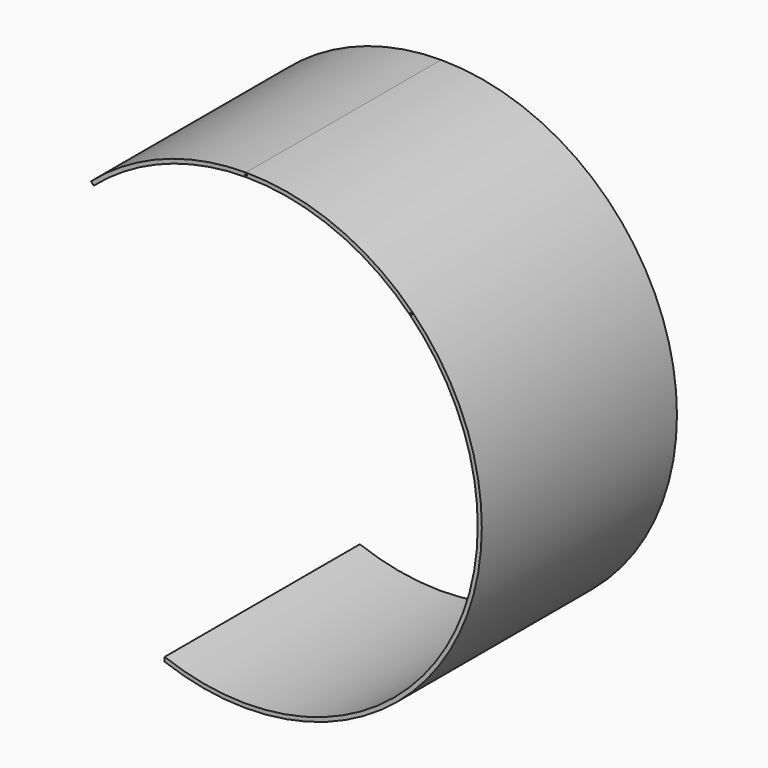
from build123d import *

# Parameters (mm, degrees)
F0_R     = 0.79375
F1_DEPTH = 190.5


with BuildPart() as f1:
    # F0 (on Front) → F1 (new body)
    with BuildSketch(Plane.XZ):
        with BuildLine():
            ThreePointArc((0, 180.975), (178.075238, -32.267014), (-63.5, -169.468878))
            Line((-63.5, -169.468878), (-63.5, -172.855351))
            ThreePointArc((-63.5, -172.855351), (181.304351, -32.24833), (0, 184.15))
            Line((0, 184.15), (0, 183.35625))
            ThreePointArc((0, 183.35625), (0.561266, 183.123766), (0.79375, 182.5625))
            ThreePointArc((0.79375, 182.5625), (0.561266, 182.001234), (0, 181.76875))
            Line((0, 181.76875), (0, 180.975))
        make_face()
        with Locations((129.091182, 129.091182)):
            Circle(F0_R, mode=Mode.SUBTRACT)
        with BuildLine():
            ThreePointArc((-118.925528, 136.413596), (-63.5, 169.468878), (0, 180.975))
            Line((0, 180.975), (0, 181.76875))
            ThreePointArc((0, 181.76875), (-0.79375, 182.5625), (0, 183.35625))
            Line((0, 183.35625), (0, 184.15))
            ThreePointArc((0, 184.15), (-64.614035, 172.442016), (-121.011941, 138.806817))
            Line((-121.011941, 138.806817), (-118.925528, 136.413596))
        make_face()
    extrude(amount=F1_DEPTH)


solid = f1.part
